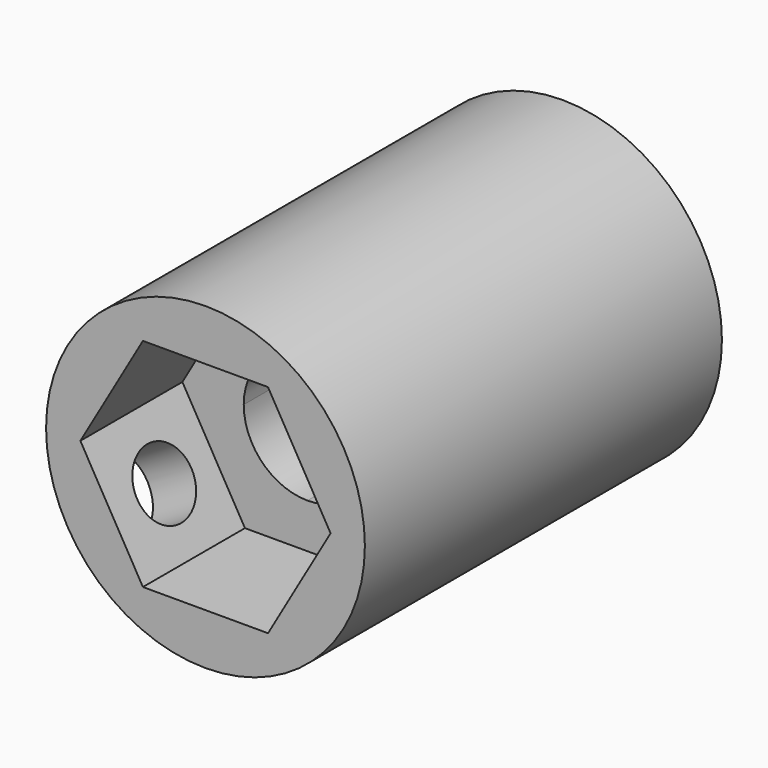
from build123d import *

# Parameters (mm, degrees)
F0_R     = 63.5
F1_DEPTH = 127
F3_DEPTH = 127.001
F4_DEPTH = 50.8
F5_R     = 63.5
F6_DEPTH = 50.8
F7_R     = 13.4769297295
F8_DEPTH = 43.5797324345


with BuildPart() as f1:
    # F0 (on Front) → F1 (new body)
    with BuildSketch(Plane.XZ):
        Circle(F0_R)
    extrude(amount=F1_DEPTH)

    # F2 (on Front) → F3 (cut, through all)
    with BuildSketch(Plane.XZ):
        with BuildLine():
            ThreePointArc((25.4, 0), (17.9605122594, 17.9605122249), (4.89e-08, 25.4))
            ThreePointArc((4.89e-08, 25.4), (-17.9605122127, 17.9605122716), (-25.4, 3.44e-08))
            ThreePointArc((-25.4, 3.44e-08), (-17.9605122437, -17.9605122406), (3.01e-08, -25.4))
            ThreePointArc((3.01e-08, -25.4), (17.9605122528, -17.9605122315), (25.4, 0))
        make_face()
    extrude(amount=F3_DEPTH, mode=Mode.SUBTRACT)

    # F2 (on Front) → F4 (cut)
    with BuildSketch(Plane.XZ):
        with BuildLine():
            Line((4.89e-08, 25.4), (-25.4, 25.4))
            Line((-25.4, 25.4), (-25.4, 3.44e-08))
            ThreePointArc((-25.4, 3.44e-08), (-17.9605122127, 17.9605122716), (4.89e-08, 25.4))
        make_face()
        with BuildLine():
            Line((25.4, 25.4), (4.89e-08, 25.4))
            ThreePointArc((4.89e-08, 25.4), (17.9605122594, 17.9605122249), (25.4, 0))
            Line((25.4, 0), (25.4, 25.4))
        make_face()
        with BuildLine():
            ThreePointArc((25.4, 0), (17.9605122594, 17.9605122249), (4.89e-08, 25.4))
            ThreePointArc((4.89e-08, 25.4), (-17.9605122127, 17.9605122716), (-25.4, 3.44e-08))
            ThreePointArc((-25.4, 3.44e-08), (-17.9605122437, -17.9605122406), (3.01e-08, -25.4))
            ThreePointArc((3.01e-08, -25.4), (17.9605122528, -17.9605122315), (25.4, 0))
        make_face()
        with BuildLine():
            ThreePointArc((3.01e-08, -25.4), (-17.9605122437, -17.9605122406), (-25.4, 3.44e-08))
            Line((-25.4, 3.44e-08), (-25.4, -25.4))
            Line((-25.4, -25.4), (3.01e-08, -25.4))
        make_face()
        with BuildLine():
            Line((25.4, -25.4), (25.4, 0))
            ThreePointArc((25.4, 0), (17.9605122528, -17.9605122315), (3.01e-08, -25.4))
            Line((3.01e-08, -25.4), (25.4, -25.4))
        make_face()
    extrude(amount=F4_DEPTH, mode=Mode.SUBTRACT)

    # F5 (on face) → F6 (join)
    with BuildSketch(Plane.XZ.offset(127)):
        Circle(F5_R)
        Polygon((-49.8413562896, 0), (-24.9206781448, 43.1638807058), (24.9206781448, 43.1638807058), (49.8413562896, 0), (24.9206781448, -43.1638807058), (-24.9206781448, -43.1638807058), align=None, mode=Mode.SUBTRACT)
    extrude(amount=F6_DEPTH)

    # F7 (on face) → F8 (cut, through all)
    with BuildSketch(Plane(origin=(-37.3810172172, 0, -21.5819403529), x_dir=(0, 1, 0), z_dir=(0.8660254038, 0, 0.5))):
        with Locations((-151.6159176826, 0)):
            Circle(F7_R)
    extrude(amount=-F8_DEPTH, mode=Mode.SUBTRACT)


solid = f1.part
